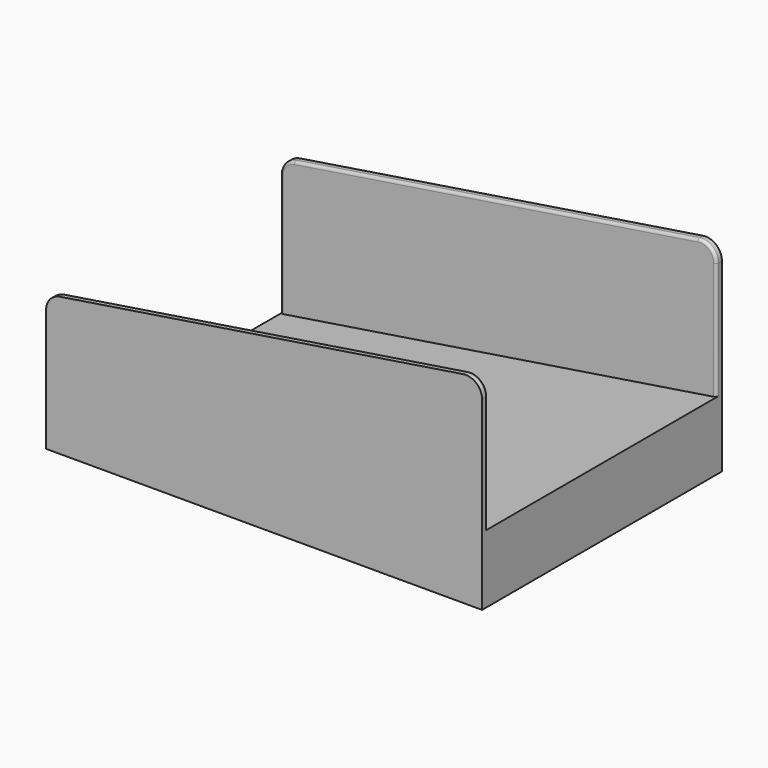
from build123d import *

# Parameters (mm, degrees)
F0_W     = 203.2
F0_H     = 133.35
F1_DEPTH = 31.75
F3_DEPTH = 133.35
F4_W     = 203.2
F4_H     = 3.175
F5_DEPTH = 95.25
F7_DEPTH = 139.7
F8_R     = 7.62
F9_R     = 1.27


with BuildPart() as f1:
    # F0 (on Top) → F1 (new body)
    with BuildSketch(Plane.XY):
        Rectangle(F0_W, F0_H)
    extrude(amount=F1_DEPTH)

    # F2 (on face) → F3 (cut, through all)
    with BuildSketch(Plane.XZ.offset(66.675)):
        Polygon((-101.6, 31.75), (-101.6, 0), (101.6, 31.75), align=None)
    extrude(amount=-F3_DEPTH, mode=Mode.SUBTRACT)

    # F4 (on Top) → F5 (join)
    with BuildSketch(Plane.XY):
        with Locations((0, 68.2625)):
            Rectangle(F4_W, F4_H)
        with Locations((0, -68.2625)):
            Rectangle(F4_W, F4_H)
    extrude(amount=F5_DEPTH)

    # F6 (on face) → F7 (cut, through all)
    with BuildSketch(Plane.XZ.offset(69.85)):
        Polygon((-101.6, 63.5), (101.6, 95.25), (-101.6, 95.25), align=None)
    extrude(amount=-F7_DEPTH, mode=Mode.SUBTRACT)

    # F8
    f8_edges = [f1.edges().sort_by_distance(p)[0] for p in [
        (101.6, -68.2625, 95.25),
        (101.6, 68.2625, 95.25),
        (-101.6, -68.2625, 63.5),
        (-101.6, 68.2625, 63.5),
    ]]
    fillet(f8_edges, radius=F8_R)

    # F9
    f9_edges = [f1.edges().sort_by_distance(p)[0] for p in [
        (101.6, -66.675, 59.048459),
        (101.6, 66.675, 59.048459),
    ]]
    fillet(f9_edges, radius=F9_R)


solid = f1.part
